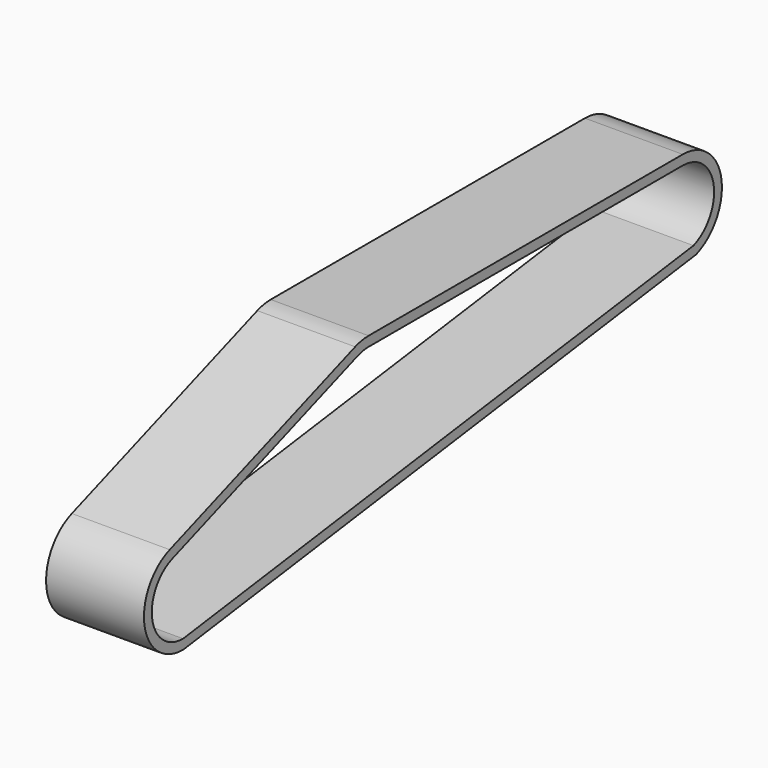
from build123d import *

# Parameters (mm, degrees)
F0_W      = 63.5
F0_H      = 6.35
F1_DEPTH  = 254.762
F2_W      = 63.5
F2_H      = 6.35
F3_ANGLE  = 20
F4_W      = 63.5
F4_H      = 6.35
F5_DEPTH  = 160.02
F6_W      = 63.5
F6_H      = 6.35
F7_ANGLE  = 160
F8_W      = 63.5
F8_H      = 6.35
F9_ANGLE  = 160
F11_DEPTH = 63.5


with BuildPart() as f1:
    # F0 (on Front) → F1 (new body)
    with BuildSketch(Plane.XZ):
        with Locations((31.75, 3.175)):
            Rectangle(F0_W, F0_H)
    extrude(amount=F1_DEPTH)

    # F2 (on face) → F3 (revolve)
    with BuildSketch(Plane.XZ.offset(254.762)):
        with Locations((31.75, 3.175)):
            Rectangle(F2_W, F2_H)
    revolve(axis=Axis((31.75, -254.762, -25.4), (1, 0, 0)), revolution_arc=F3_ANGLE)

    # F4 (on face) → F5 (join)
    with BuildSketch(Plane(origin=(0, -233.123909852, -84.8501640819), x_dir=(1, 0, 0), z_dir=(0, -0.9396926208, -0.3420201433))):
        with Locations((31.75, 91.840543186)):
            Rectangle(F4_W, F4_H)
    extrude(amount=F5_DEPTH)

    # F6 (on face) → F7 (revolve)
    with BuildSketch(Plane(origin=(0, -383.4935230301, -139.5802274168), x_dir=(1, 0, 0), z_dir=(0, -0.9396926208, -0.3420201433))):
        with Locations((31.75, 91.840543186)):
            Rectangle(F6_W, F6_H)
    revolve(axis=Axis((31.75, -405.1316131782, -80.130063335), (1, 0, 0)), revolution_arc=F7_ANGLE)

    # F8 (on face) → F9 (revolve)
    with BuildSketch(Plane(origin=(0, 0, 0), x_dir=(-1, 0, 0), z_dir=(0, 1, 0))):
        with Locations((-31.75, 3.175)):
            Rectangle(F8_W, F8_H)
    revolve(axis=Axis((31.75, 0, -25.4), (-1, 0, 0)), revolution_arc=F9_ANGLE)

    # F10 (on face) → F11 (join)
    with BuildSketch(Plane.YZ.offset(63.5)):
        Polygon((-405.1316131782, -105.530063335), (-405.1316131782, -111.880063335), (10.8591395506, -55.23524071), (8.6873116405, -49.268192568), align=None)
    extrude(amount=-F11_DEPTH)


solid = f1.part
